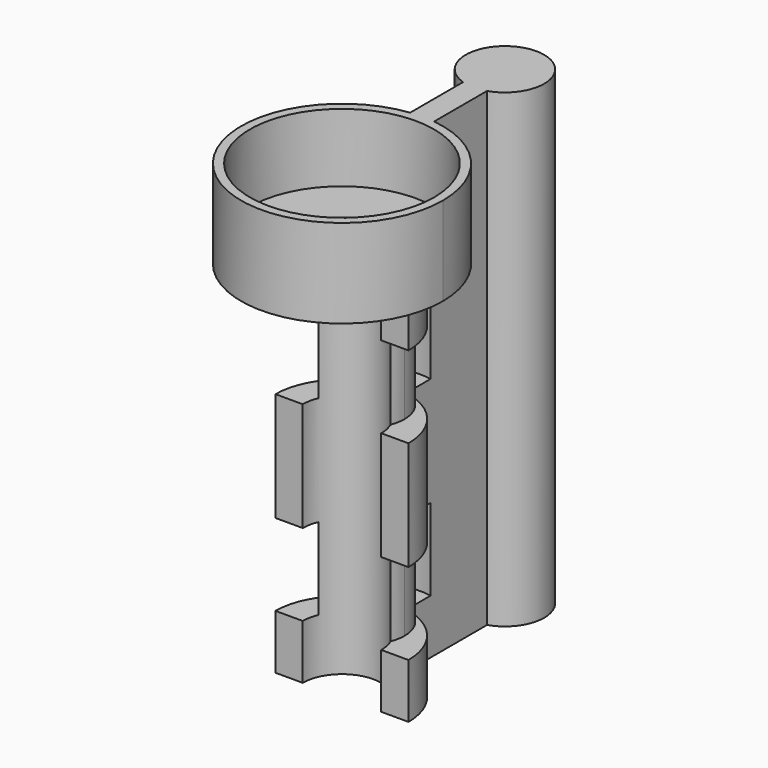
from build123d import *

# Parameters (mm, degrees)
F1_DEPTH  = 44.45
F9_DEPTH  = 9.525
F10_DEPTH = 9.525
F12_DEPTH = 2.38125
F13_R     = 11.7475
F13_R_2   = 10.7315
F14_DEPTH = 7.9375
F15_DEPTH = 10.31875


with BuildPart() as f1:
    # F0 (on Top) → F1 (new body)
    with BuildSketch(Plane.XY):
        with BuildLine():
            ThreePointArc((-4.572, 0), (0, 4.572), (4.572, 0))
            Line((4.572, 0), (7.747, 0))
            ThreePointArc((7.747, 0), (5.951410253, 4.9595085442), (1.397, 7.62))
            ThreePointArc((1.397, 7.62), (0, 7.747), (-1.397, 7.62))
            ThreePointArc((-1.397, 7.62), (-5.951410253, 4.9595085442), (-7.747, 0))
            Line((-7.747, 0), (-4.572, 0))
        make_face()
        with BuildLine():
            ThreePointArc((-1.397, 7.62), (0, 7.747), (1.397, 7.62))
            Line((1.397, 7.62), (1.397, 19.3802))
            ThreePointArc((1.397, 19.3802), (0, 19.1615406713), (-1.397, 19.3802))
            Line((-1.397, 19.3802), (-1.397, 7.62))
        make_face()
        with BuildLine():
            ThreePointArc((-1.397, 19.3802), (0, 19.1615406713), (1.397, 19.3802))
            ThreePointArc((1.397, 19.3802), (3.6939320514, 21.0394638349), (4.572, 23.7335406713))
            ThreePointArc((4.572, 23.7335406713), (-2.6940768363, 27.4274727226), (-1.397, 19.3802))
        make_face()
    extrude(amount=F1_DEPTH)

    # F6 (on offset) → F9 (cut)
    with BuildSketch(Plane.XY.offset(28.575)):
        with BuildLine():
            ThreePointArc((4.1557772601, 1.7640375299), (0, -1.016), (-4.1557772601, 1.7640375299))
            Line((-4.1557772601, 1.7640375299), (-7.6070004234, 1.7640375299))
            ThreePointArc((-7.6070004234, 1.7640375299), (0, -4.318), (7.6070004234, 1.7640375299))
            Line((7.6070004234, 1.7640375299), (4.1557772601, 1.7640375299))
        make_face()
        with BuildLine():
            ThreePointArc((-4.1557772601, 1.7640375299), (-0.8747878771, 7.8904367738), (4.4961791045, 3.4801791045))
            ThreePointArc((4.4961791045, 3.4801791045), (4.4102576693, 2.6053912274), (4.1557772601, 1.7640375299))
            Line((4.1557772601, 1.7640375299), (7.6070004234, 1.7640375299))
            ThreePointArc((7.6070004234, 1.7640375299), (7.750237064, 2.6168003938), (7.7981791045, 3.4801791045))
            ThreePointArc((7.7981791045, 3.4801791045), (-0.8633787106, 11.2304161684), (-7.6070004234, 1.7640375299))
            Line((-7.6070004234, 1.7640375299), (-4.1557772601, 1.7640375299))
        make_face()
        with BuildLine():
            ThreePointArc((7.6070004234, 1.7640375299), (0, -4.318), (-7.6070004234, 1.7640375299))
            Line((-7.6070004234, 1.7640375299), (-8.4216929972, 1.7640375299))
            Line((-8.4216929972, 1.7640375299), (-8.4216929972, -6.3198274001))
            Line((-8.4216929972, -6.3198274001), (11.7628639564, -6.3198274001))
            Line((11.7628639564, -6.3198274001), (11.7628639564, 1.7640375299))
            Line((11.7628639564, 1.7640375299), (7.6070004234, 1.7640375299))
        make_face()
    extrude(amount=F9_DEPTH, mode=Mode.SUBTRACT)

    # F8 (on offset) → F10 (cut)
    with BuildSketch(Plane.XY.offset(15.875)):
        with BuildLine():
            ThreePointArc((4.179462045, 1.8225532258), (0, -1.016), (-4.179462045, 1.8225532258))
            Line((-4.179462045, 1.8225532258), (-7.6199654718, 1.8225532258))
            ThreePointArc((-7.6199654718, 1.8225532258), (0, -4.318), (7.6199654718, 1.8225532258))
            Line((7.6199654718, 1.8225532258), (4.179462045, 1.8225532258))
        make_face()
        with BuildLine():
            ThreePointArc((-4.179462045, 1.8225532258), (-0.8438058499, 7.8964692022), (4.4961791045, 3.4801791045))
            ThreePointArc((4.4961791045, 3.4801791045), (4.4162900977, 2.6363732546), (4.179462045, 1.8225532258))
            Line((4.179462045, 1.8225532258), (7.6199654718, 1.8225532258))
            ThreePointArc((7.6199654718, 1.8225532258), (7.7534976902, 2.6465899292), (7.7981791045, 3.4801791045))
            ThreePointArc((7.7981791045, 3.4801791045), (-0.8335891753, 11.2336767947), (-7.6199654718, 1.8225532258))
            Line((-7.6199654718, 1.8225532258), (-4.179462045, 1.8225532258))
        make_face()
        with BuildLine():
            ThreePointArc((7.6199654718, 1.8225532258), (0, -4.318), (-7.6199654718, 1.8225532258))
            Line((-7.6199654718, 1.8225532258), (-8.5849482566, 1.8225532258))
            Line((-8.5849482566, 1.8225532258), (-8.5849482566, -5.9901881032))
            Line((-8.5849482566, -5.9901881032), (8.4006469697, -5.9901881032))
            Line((8.4006469697, -5.9901881032), (8.4006469697, 1.8225532258))
            Line((8.4006469697, 1.8225532258), (7.6199654718, 1.8225532258))
        make_face()
    extrude(amount=-F10_DEPTH, mode=Mode.SUBTRACT)

    # F11 (on face) → F12 (join)
    with BuildSketch(Plane.XY.offset(44.45)):
        with BuildLine():
            ThreePointArc((-1.397, 11.6641393703), (-7.7971949684, -8.7867802337), (11.7475, 0))
            ThreePointArc((11.7475, 0), (8.7867802337, 7.7971949684), (1.397, 11.6641393703))
            Line((1.397, 11.6641393703), (1.397, 7.62))
            ThreePointArc((1.397, 7.62), (5.951410253, 4.9595085442), (7.747, 0))
            Line((7.747, 0), (4.572, 0))
            ThreePointArc((4.572, 0), (0, -4.572), (-4.572, 0))
            Line((-4.572, 0), (-7.747, 0))
            ThreePointArc((-7.747, 0), (-5.951410253, 4.9595085442), (-1.397, 7.62))
            Line((-1.397, 7.62), (-1.397, 11.6641393703))
        make_face()
        with BuildLine():
            Line((1.397, 7.62), (1.397, 11.6641393703))
            ThreePointArc((1.397, 11.6641393703), (0, 11.7475), (-1.397, 11.6641393703))
            Line((-1.397, 11.6641393703), (-1.397, 7.62))
            ThreePointArc((-1.397, 7.62), (-5.951410253, 4.9595085442), (-7.747, 0))
            Line((-7.747, 0), (-4.572, 0))
            ThreePointArc((-4.572, 0), (0, 4.572), (4.572, 0))
            Line((4.572, 0), (7.747, 0))
            ThreePointArc((7.747, 0), (5.951410253, 4.9595085442), (1.397, 7.62))
        make_face()
    extrude(amount=F12_DEPTH)

    # F13 (on face) → F14 (join)
    with BuildSketch(Plane.XY.offset(46.83125)):
        Circle(F13_R)
        Circle(F13_R_2, mode=Mode.SUBTRACT)
    extrude(amount=F14_DEPTH)

    # F15 (add, through all): a face of the model
    f15_faces = [f1.faces().sort_by_distance(p)[0] for p in [
        (0, 21.7334038121, 44.45),
    ]]
    extrude(f15_faces, amount=F15_DEPTH)


solid = f1.part
